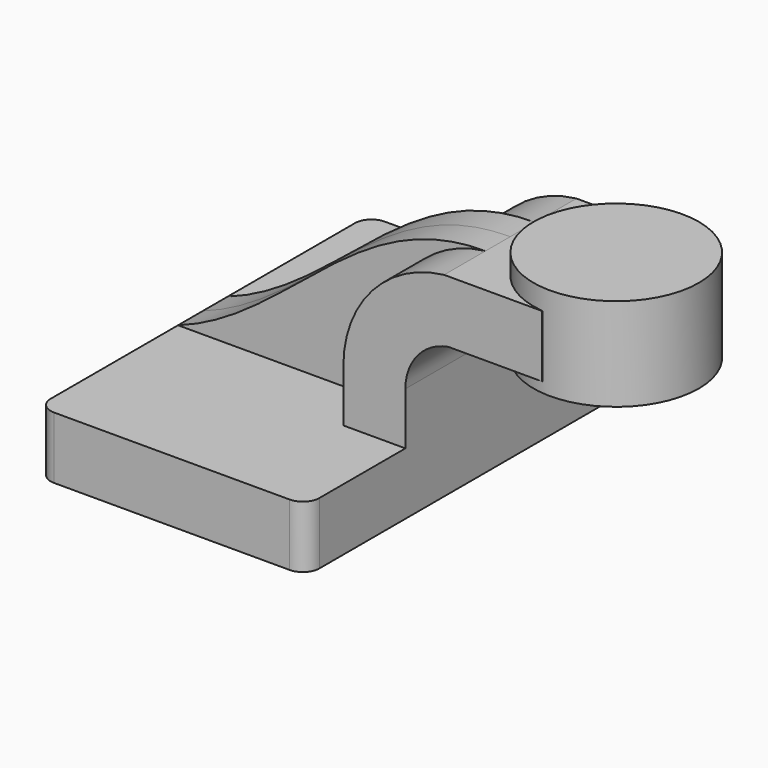
from build123d import *

# Parameters (mm, degrees)
F1_DEPTH = 63.5
F0_W     = 22.921771
F0_H     = 19.05
F2_DEPTH = 25.4
F3_DEPTH = 9.525
F0_W_2   = 25.4
F0_H_2   = 28.575
F5_R     = 5.08


with BuildPart() as f1:
    # F0 (on Front) → F1 (new body, symmetric)
    with BuildSketch(Plane.XZ):
        Polygon((-109.419321, -19.310768), (-26.869321, -19.310768), (-26.869321, -0.260768), (-45.919321, -0.260768), (-109.419321, -0.260768), align=None)
    extrude(amount=F1_DEPTH, both=True)

    # F0 (on Front) → F2 (join, symmetric)
    with BuildSketch(Plane.XZ):
        with BuildLine():
            Line((-45.919321, -0.260768), (-26.869321, -0.260768))
            Line((-26.869321, -0.260768), (-26.869321, 15.84063))
            ThreePointArc((-26.869321, 15.84063), (-23.12745, 26.077956), (-13.665816, 31.489232))
            Line((-13.665816, 31.489232), (-7.819321, 31.489232))
            Line((-7.819321, 31.489232), (-7.819321, 50.539232))
            Line((-7.819321, 50.539232), (-14.964541, 50.539232))
            ThreePointArc((-14.964541, 50.539232), (-37.055936, 39.090315), (-45.919321, 15.84063))
            Line((-45.919321, 15.84063), (-45.919321, -0.260768))
        make_face()
        with Locations((3.641564, 41.014232)):
            Rectangle(F0_W, F0_H)
    extrude(amount=F2_DEPTH, both=True)

    # F0 (on Front) → F3 (join, symmetric)
    with BuildSketch(Plane.XZ):
        with BuildLine():
            add(Edge.make_bspline(
                [(-109.419321, -0.260768), (-74.719019, 12.0015), (-55.361759, 50.716016), (-14.964541, 50.539232)],
                knots=[0, 0, 0, 0, 107.248988, 107.248988, 107.248988, 107.248988], degree=3))
            Line((-109.419321, -0.260768), (-45.919321, -0.260768))
            Line((-45.919321, -0.260768), (-45.919321, 15.84063))
            ThreePointArc((-45.919321, 15.84063), (-37.055936, 39.090315), (-14.964541, 50.539232))
        make_face()
    extrude(amount=F3_DEPTH, both=True)

    # F0 (on Front) → F4 (revolve)
    with BuildSketch(Plane.XZ):
        with Locations((30.280679, 42.601732)):
            Rectangle(F0_W_2, F0_H_2)
    revolve(axis=Axis((17.580679, 0, 42.601732), (0, 0, -1)))

    # F5
    f5_edges = [f1.edges().sort_by_distance(p)[0] for p in [
        (-109.419321, -63.5, -9.785768),
        (-109.419321, 63.5, -9.785768),
        (-26.869321, -63.5, -9.785768),
        (-26.869321, 63.5, -9.785768),
    ]]
    fillet(f5_edges, radius=F5_R)


solid = f1.part
